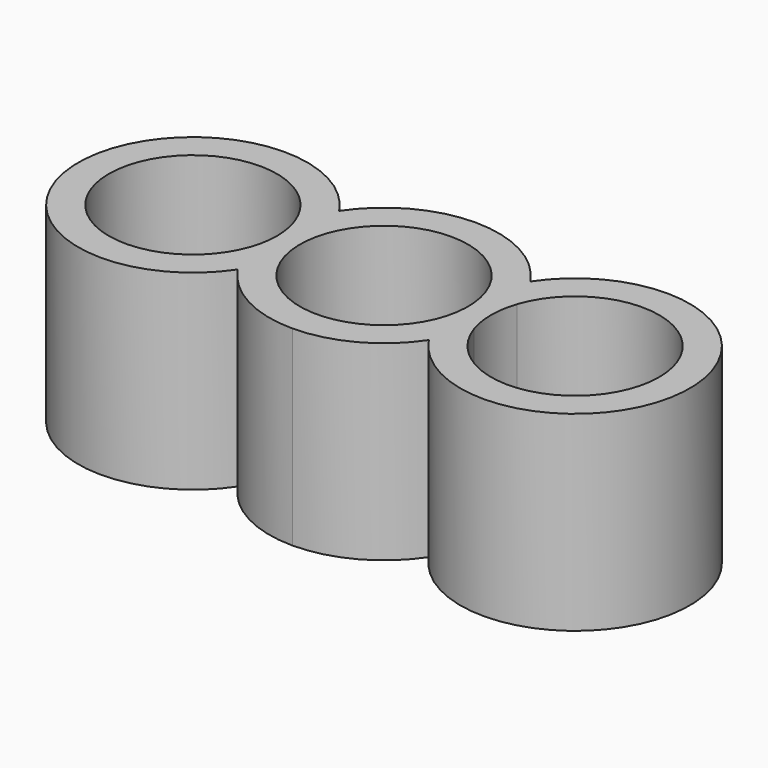
from build123d import *

# Parameters (mm, degrees)
F1_DEPTH = 25


with BuildPart() as f1:
    # F0 (on Top) → F1 (new body)
    with BuildSketch(Plane.XY):
        with BuildLine():
            ThreePointArc((-12.5, -8.291562), (-7.093186, -13.21691), (0, -15))
            ThreePointArc((0, -15), (7.093186, -13.21691), (12.5, -8.291562))
            ThreePointArc((12.5, -8.291562), (40, 0), (12.5, 8.291562))
            ThreePointArc((12.5, 8.291562), (7.093186, 13.21691), (0, 15))
            ThreePointArc((0, 15), (-7.093186, 13.21691), (-12.5, 8.291562))
            ThreePointArc((-12.5, 8.291562), (-40, 0), (-12.5, -8.291562))
        make_face()
        with BuildLine():
            ThreePointArc((-14.58, -3.524713), (-36, 0), (-14.58, 3.524713))
            ThreePointArc((-14.58, 3.524713), (-14, 0), (-14.58, -3.524713))
        make_face(mode=Mode.SUBTRACT)
        with BuildLine():
            ThreePointArc((0, -11), (-11, 0), (0, 11))
            ThreePointArc((0, 11), (11, 0), (0, -11))
        make_face(mode=Mode.SUBTRACT)
        with BuildLine():
            ThreePointArc((14.58, -3.524713), (14, 0), (14.58, 3.524713))
            ThreePointArc((14.58, 3.524713), (36, 0), (14.58, -3.524713))
        make_face(mode=Mode.SUBTRACT)
    extrude(amount=F1_DEPTH)


solid = f1.part
